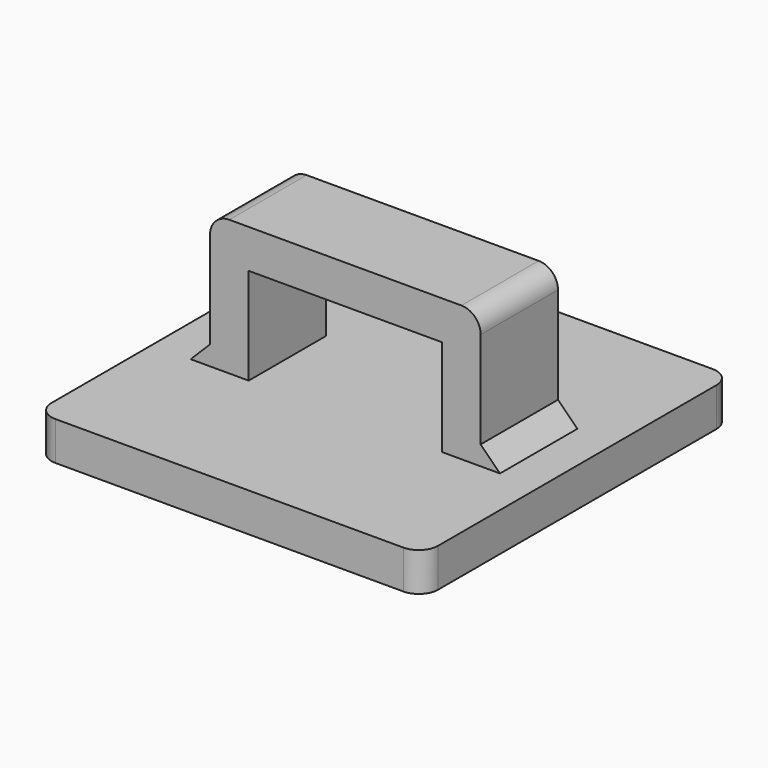
from build123d import *

# Parameters (mm, degrees)
SKETCH_W        = 20
SKETCH_H        = 20
PAD_DEPTH       = 2
PAD001_DEPTH    = 2.5
CHAMFER_SIZE    = 1
CHAMFER001_SIZE = 1
FILLET_R        = 1
FILLET001_R     = 1
FILLET002_R     = 1


with BuildPart() as part:
    # Sketch → Pad (new body)
    with BuildSketch(Plane.XY):
        Rectangle(SKETCH_W, SKETCH_H)
    extrude(amount=PAD_DEPTH)

    # Sketch001 → Pad001 (join, symmetric)
    with BuildSketch(Plane.XZ):
        Polygon((-5, 2), (-5, 7), (5, 7), (5, 1.996067), (7, 1.996067), (7, 9), (-7, 9), (-7, 2), align=None)
    extrude(amount=PAD001_DEPTH, both=True)

    # Chamfer
    chamfer_edges = [part.edges().sort_by_distance(p)[0] for p in [
        (7, 0, 2),
    ]]
    chamfer(chamfer_edges, length=CHAMFER_SIZE)

    # Chamfer001
    chamfer001_edges = [part.edges().sort_by_distance(p)[0] for p in [
        (-7, 0, 2),
    ]]
    chamfer(chamfer001_edges, length=CHAMFER001_SIZE)

    # Fillet
    fillet_edges = [part.edges().sort_by_distance(p)[0] for p in [
        (-10, 10, 1),
    ]]
    fillet(fillet_edges, radius=FILLET_R)

    # Fillet001
    fillet001_edges = [part.edges().sort_by_distance(p)[0] for p in [
        (10, -10, 1),
        (-10, -10, 1),
        (10, 10, 1),
    ]]
    fillet(fillet001_edges, radius=FILLET001_R)

    # Fillet002
    fillet002_edges = [part.edges().sort_by_distance(p)[0] for p in [
        (7, 0, 9),
        (-7, 0, 9),
    ]]
    fillet(fillet002_edges, radius=FILLET002_R)


solid = part.part
